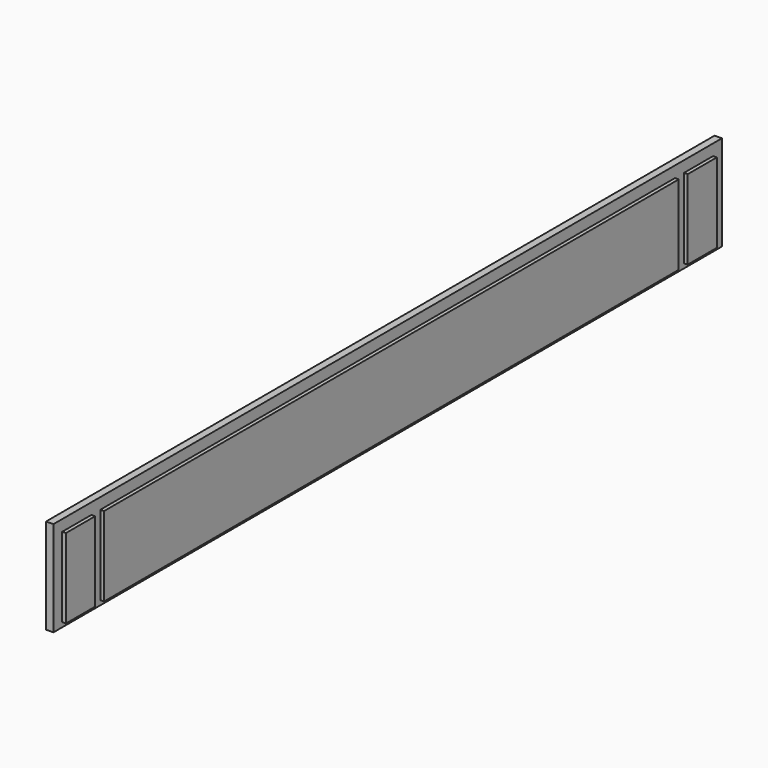
from build123d import *

# Parameters (mm, degrees)
F1_DEPTH = 65
F3_DEPTH = 5


with BuildPart() as f1:
    # F0 (on Top) → F1 (new body, symmetric)
    with BuildSketch(Plane.XY):
        Polygon((0, -555), (0, 0), (-15, 0), (-15, -570), (-5, -570), (-5, -555), align=None)
    extrude(amount=F1_DEPTH, both=True)

    # F2 (on face) → F3 (cut)
    with BuildSketch(Plane.YZ):
        Polygon((-505.25, 49.8), (-505.25, -58.8), (-555, -58.8), (-555, -65), (0, -65), (0, -58.8), (-490, -58.8), (-490, 49.8), (0, 49.8), (0, 65), (-555, 65), (-555, 49.8), align=None)
    extrude(amount=-F3_DEPTH, mode=Mode.SUBTRACT)

    # F4: F1 across face


with BuildPart() as f1_1:
    add(f1.part)
    add(f1.part.mirror(Plane(origin=(-7.790288, 0, -1.325827), x_dir=(-1, 0, 0), z_dir=(0, 1, 0))))


with BuildPart() as f5_1:
    # F5: copy of F1
    add(f1_1.part)


solid = Compound([f1_1.part, f5_1.part])
